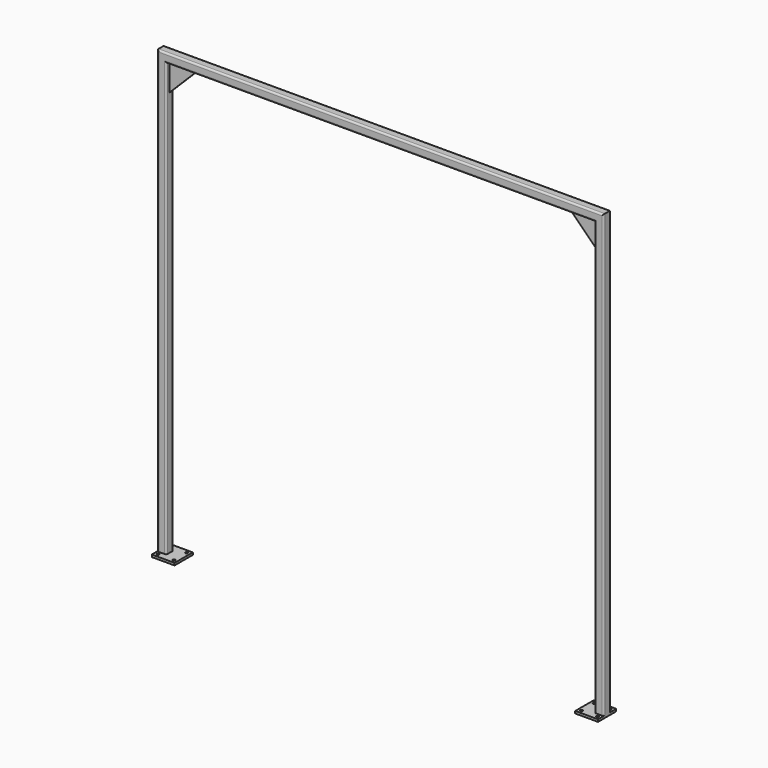
from build123d import *

# Parameters (mm, degrees)
F3_W     = 127
F3_H     = 127
F3_R     = 7.112
F4_DEPTH = 12.7
F6_DEPTH = 3.175


with BuildPart() as f2:
    # F2: sweep along a path in F0
    with BuildLine(Plane.XZ) as f2_path:
        Line((0, 0), (0, 2438.4))
        Line((0, 2438.4), (2438.4, 2438.4))
        Line((2438.4, 2438.4), (2438.4, 0))
    # F1 (on Top) → F2 (sweep)
    with BuildSketch(Plane.XY):
        with BuildLine():
            Line((15.875, 25.4), (-15.875, 25.4))
            ThreePointArc((-15.875, 25.4), (-22.6101920908, 22.6101920908), (-25.4, 15.875))
            Line((-25.4, 15.875), (-25.4, -15.875))
            ThreePointArc((-25.4, -15.875), (-22.6101920908, -22.6101920908), (-15.875, -25.4))
            Line((-15.875, -25.4), (15.875, -25.4))
            ThreePointArc((15.875, -25.4), (22.6101920908, -22.6101920908), (25.4, -15.875))
            Line((25.4, -15.875), (25.4, 15.875))
            ThreePointArc((25.4, 15.875), (22.6101920908, 22.6101920908), (15.875, 25.4))
        make_face()
    sweep(path=f2_path.line, transition=Transition.RIGHT)

    # F3 (on Top) → F4 (join)
    with BuildSketch(Plane.XY):
        with Locations((38.1, 0)):
            Rectangle(F3_W, F3_H)
        with Locations((-6.35, -44.45)):
            Circle(F3_R, mode=Mode.SUBTRACT)
        with Locations((82.55, -44.45)):
            Circle(F3_R, mode=Mode.SUBTRACT)
        with Locations((-6.35, 44.45)):
            Circle(F3_R, mode=Mode.SUBTRACT)
        with Locations((82.55, 44.45)):
            Circle(F3_R, mode=Mode.SUBTRACT)
        with Locations((2400.3, 0)):
            Rectangle(F3_W, F3_H)
        with Locations((2355.85, -44.45)):
            Circle(F3_R, mode=Mode.SUBTRACT)
        with Locations((2444.75, -44.45)):
            Circle(F3_R, mode=Mode.SUBTRACT)
        with Locations((2355.85, 44.45)):
            Circle(F3_R, mode=Mode.SUBTRACT)
        with Locations((2444.75, 44.45)):
            Circle(F3_R, mode=Mode.SUBTRACT)
    extrude(amount=-F4_DEPTH)

    # F5 (on Front) → F6 (join, symmetric)
    with BuildSketch(Plane.XZ):
        Polygon((177.8, 2413), (25.4, 2413), (25.4, 2260.6), align=None)
        Polygon((2413, 2260.6), (2413, 2413), (2260.6, 2413), align=None)
    extrude(amount=F6_DEPTH, both=True)


solid = f2.part
